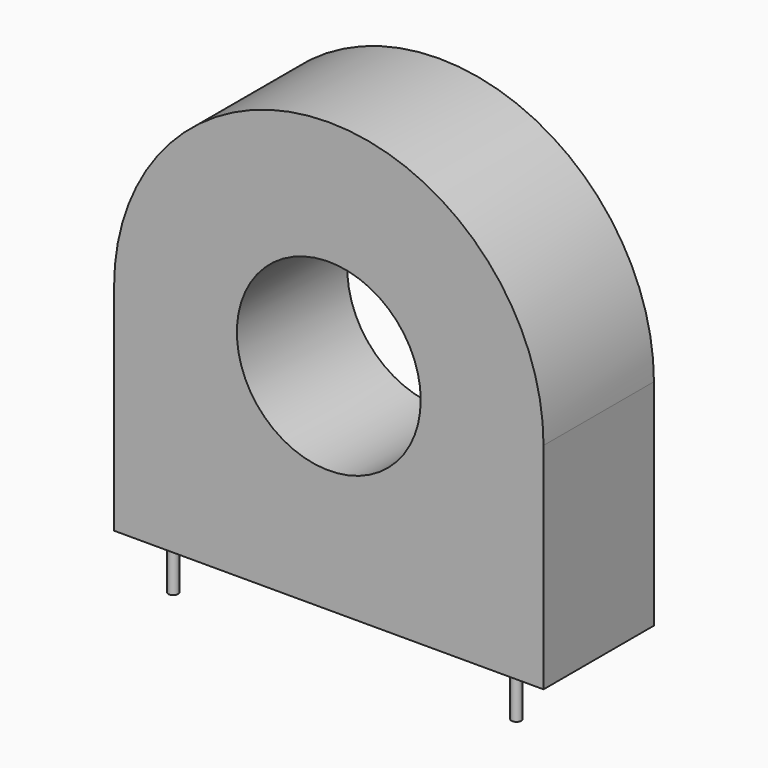
from build123d import *

# Parameters (mm, degrees)
F0_R     = 9.525
F1_DEPTH = 7.15
F2_R     = 0.508
F3_DEPTH = 5


with BuildPart() as f1:
    # F0 (on Front) → F1 (new body, symmetric)
    with BuildSketch(Plane.XZ):
        with BuildLine():
            ThreePointArc((22.25, 22.25), (0, 44.5), (-22.25, 22.25))
            Line((-22.25, 22.25), (-22.25, 0))
            Line((-22.25, 0), (22.25, 0))
            Line((22.25, 0), (22.25, 22.25))
        make_face()
        with Locations((0, 22.25)):
            Circle(F0_R, mode=Mode.SUBTRACT)
    extrude(amount=F1_DEPTH, both=True)

    # F2 (on face) → F3 (join)
    with BuildSketch(Plane(origin=(0, 0, 0), x_dir=(1, 0, 0), z_dir=(0, 0, -1))):
        with Locations((-17.78, 5.08)):
            Circle(F2_R)
        with Locations((17.78, 5.08)):
            Circle(F2_R)
        with Locations((0, -5.08)):
            Circle(F2_R)
    extrude(amount=F3_DEPTH)


solid = f1.part
